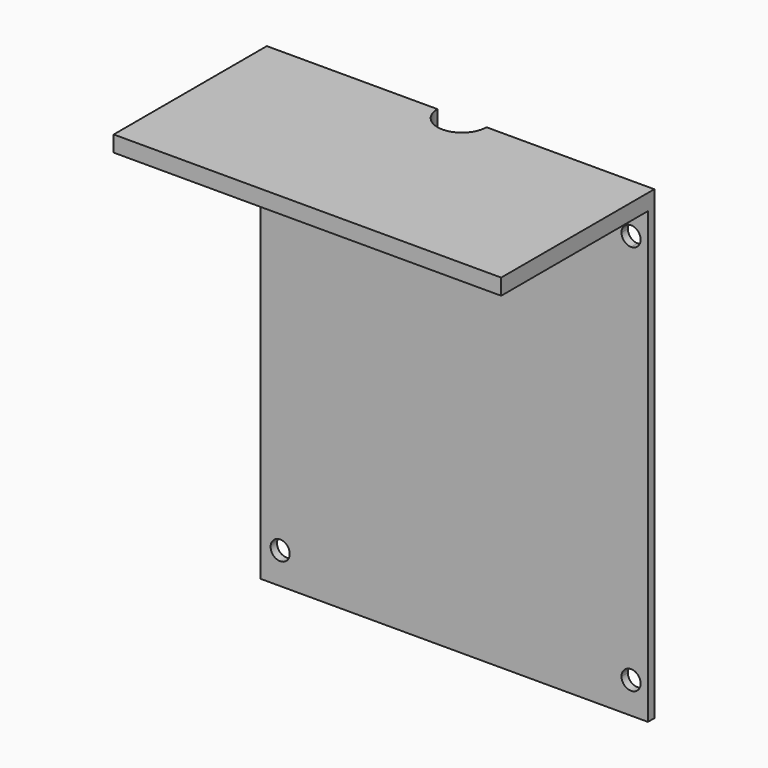
from build123d import *

# Parameters (mm, degrees)
F1_DEPTH = 3.175
F2_W     = 154.2725488544
F2_H     = 6.3731148839
F3_DEPTH = 76.2
F4_R     = 9.7458637612
F5_DEPTH = 25.4


with BuildPart() as f1:
    # F0 (on Front) → F1 (new body)
    with BuildSketch(Plane.XZ):
        with BuildLine():
            ThreePointArc((-69.85, 73.9775), (-72.5440768363, 80.4815768363), (-66.04, 77.7875))
            Line((-66.04, 77.7875), (0, 77.7875))
            Line((0, 77.7875), (0, 88.7359380722))
            Line((0, 88.7359380722), (-77.7124390006, 88.7359380722))
            Line((-77.7124390006, 88.7359380722), (-77.7124390006, 0))
            Line((-77.7124390006, 0), (-69.85, 0))
            Line((-69.85, 0), (-69.85, 73.9775))
        make_face()
        with BuildLine():
            Line((0, 88.7359380722), (0, 77.7875))
            Line((0, 77.7875), (66.04, 77.7875))
            ThreePointArc((66.04, 77.7875), (69.85, 81.5975), (73.66, 77.7875))
            ThreePointArc((73.66, 77.7875), (72.5440768363, 75.0934231637), (69.85, 73.9775))
            Line((69.85, 73.9775), (69.85, 0))
            Line((69.85, 0), (76.5601098537, 0))
            Line((76.5601098537, 0), (76.5601098537, 88.7359380722))
            Line((76.5601098537, 88.7359380722), (0, 88.7359380722))
        make_face()
        with BuildLine():
            Line((66.04, -77.7875), (0, -77.7875))
            Line((0, -77.7875), (0, -90.3118550777))
            Line((0, -90.3118550777), (76.5601098537, -90.3118550777))
            Line((76.5601098537, -90.3118550777), (76.5601098537, 0))
            Line((76.5601098537, 0), (69.85, 0))
            Line((69.85, 0), (69.85, -73.9775))
            ThreePointArc((69.85, -73.9775), (72.5440768363, -75.0934231637), (73.66, -77.7875))
            ThreePointArc((73.66, -77.7875), (69.85, -81.5975), (66.04, -77.7875))
        make_face()
        with BuildLine():
            Line((-69.85, -73.9775), (-69.85, 0))
            Line((-69.85, 0), (-77.7124390006, 0))
            Line((-77.7124390006, 0), (-77.7124390006, -90.3118550777))
            Line((-77.7124390006, -90.3118550777), (0, -90.3118550777))
            Line((0, -90.3118550777), (0, -77.7875))
            Line((0, -77.7875), (-66.04, -77.7875))
            ThreePointArc((-66.04, -77.7875), (-72.5440768363, -80.4815768363), (-69.85, -73.9775))
        make_face()
        with BuildLine():
            Line((0, 0), (-69.85, 0))
            Line((-69.85, 0), (-69.85, -73.9775))
            ThreePointArc((-69.85, -73.9775), (-67.1559231637, -75.0934231637), (-66.04, -77.7875))
            Line((-66.04, -77.7875), (0, -77.7875))
            Line((0, -77.7875), (0, 0))
        make_face()
        with BuildLine():
            Line((0, 77.7875), (-66.04, 77.7875))
            ThreePointArc((-66.04, 77.7875), (-67.1559231637, 75.0934231637), (-69.85, 73.9775))
            Line((-69.85, 73.9775), (-69.85, 0))
            Line((-69.85, 0), (0, 0))
            Line((0, 0), (0, 77.7875))
        make_face()
        with BuildLine():
            Line((66.04, 77.7875), (0, 77.7875))
            Line((0, 77.7875), (0, 0))
            Line((0, 0), (69.85, 0))
            Line((69.85, 0), (69.85, 73.9775))
            ThreePointArc((69.85, 73.9775), (67.1559231637, 75.0934231637), (66.04, 77.7875))
        make_face()
        with BuildLine():
            Line((69.85, 0), (0, 0))
            Line((0, 0), (0, -77.7875))
            Line((0, -77.7875), (66.04, -77.7875))
            ThreePointArc((66.04, -77.7875), (67.1559231637, -75.0934231637), (69.85, -73.9775))
            Line((69.85, -73.9775), (69.85, 0))
        make_face()
    extrude(amount=F1_DEPTH)

    # F2 (on face) → F3 (join)
    with BuildSketch(Plane(origin=(0, 0, 0), x_dir=(-1, 0, 0), z_dir=(0, 1, 0))):
        with Locations((0.5761645734, 91.9224955142)):
            Rectangle(F2_W, F2_H)
    extrude(amount=-F3_DEPTH)

    # F4 (on face) → F5 (cut)
    with BuildSketch(Plane.XY.offset(95.1090529561)):
        Circle(F4_R)
    extrude(amount=-F5_DEPTH, mode=Mode.SUBTRACT)


solid = f1.part
